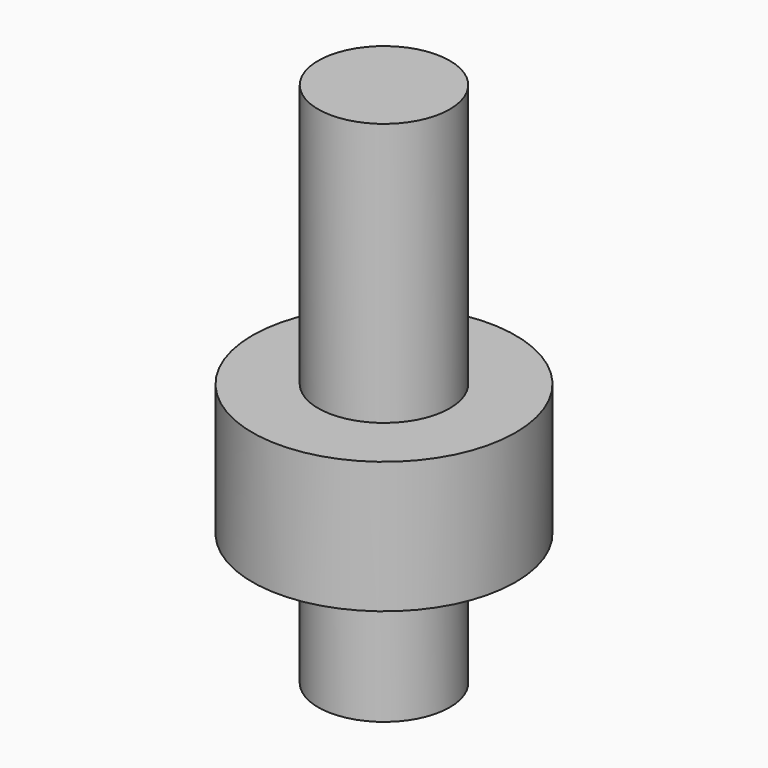
from build123d import *

# Parameters (mm, degrees)
F0_R     = 63.5
F1_DEPTH = 508
F3_R     = 127
F4_DEPTH = 127


with BuildPart() as f1:
    # F0 (on Top) → F1 (new body)
    with BuildSketch(Plane.XY):
        Circle(F0_R)
    extrude(amount=F1_DEPTH)

    # F3 (on offset) → F4 (join)
    with BuildSketch(Plane(origin=(0, 0, 127), x_dir=(1, 0, 0), z_dir=(0, 0, -1))):
        Circle(F3_R)
    extrude(amount=-F4_DEPTH)


solid = f1.part
